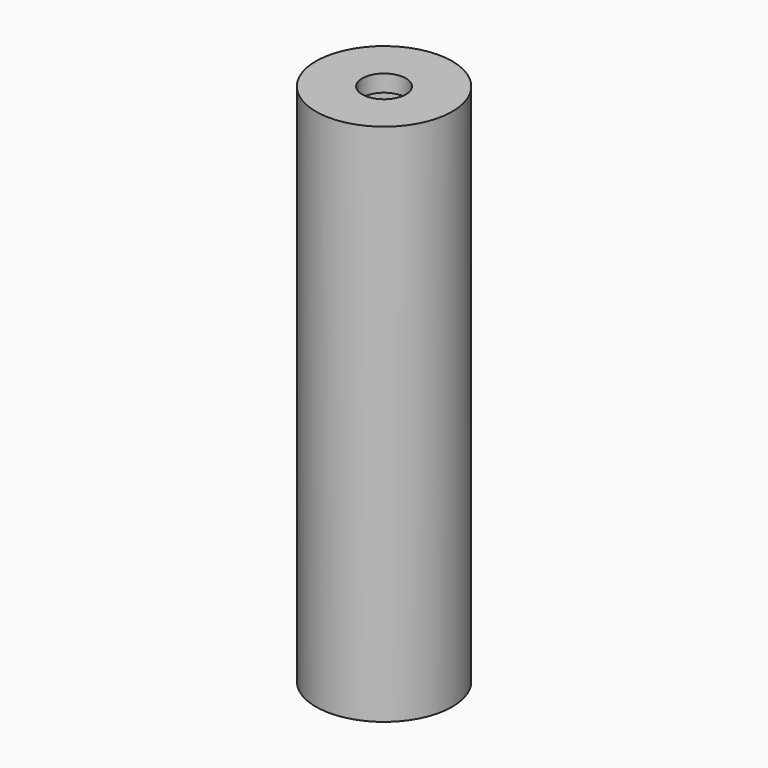
from build123d import *

# Parameters (mm, degrees)
F0_R     = 12.1
F0_R_2   = 3.875
F1_DEPTH = 3
F2_R     = 12.1
F3_DEPTH = 90


with BuildPart() as f1:
    # F0 (on Top) → F1 (new body)
    with BuildSketch(Plane.XY):
        Circle(F0_R)
        Circle(F0_R_2, mode=Mode.SUBTRACT)
    extrude(amount=F1_DEPTH)

    # F2 (on face) → F3 (join)
    with BuildSketch(Plane(origin=(0, 0, 0), x_dir=(1, 0, 0), z_dir=(0, 0, -1))):
        Circle(F2_R)
        with BuildLine():
            ThreePointArc((-8.819044, 2.620012), (-9.298069, 4.493539), (-7.532436, 5.282274))
            ThreePointArc((-7.532436, 5.282274), (8.283395, -4.00317), (-8.819044, 2.620012))
        make_face(mode=Mode.SUBTRACT)
    extrude(amount=F3_DEPTH)


solid = f1.part
